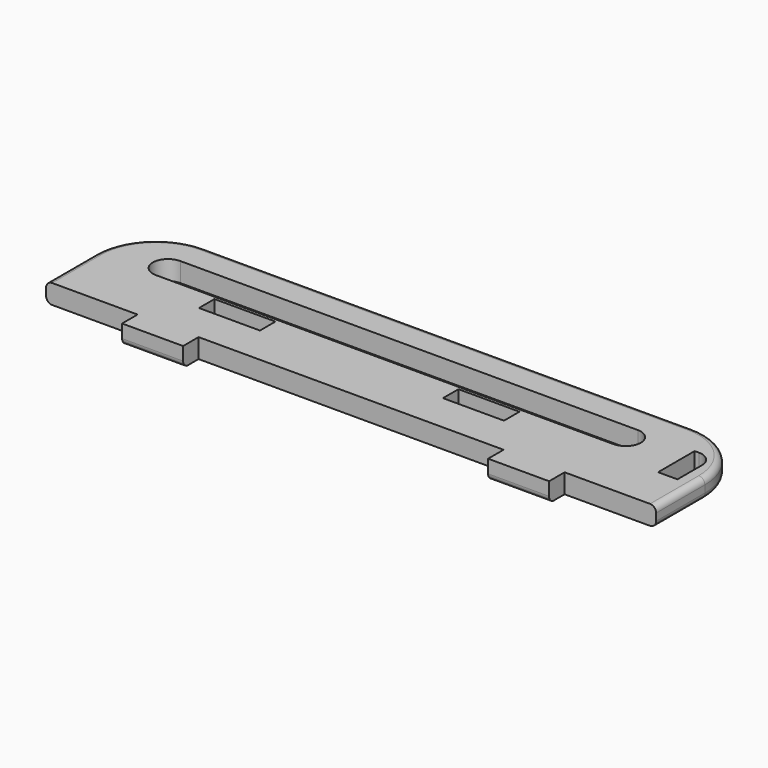
from build123d import *

# Parameters (mm, degrees)
F0_W     = 20
F0_H     = 6.35
F1_DEPTH = 6.35
F2_R     = 2


with BuildPart() as f1:
    # F0 (on Top) → F1 (new body)
    with BuildSketch(Plane.XY):
        with BuildLine():
            Line((88.642785, 10), (-71.357215, 10))
            ThreePointArc((-71.357215, 10), (-85.49935, 4.142136), (-91.357215, -10))
            Line((-91.357215, -10), (-91.357215, -30))
            Line((-91.357215, -30), (-61.357215, -30))
            Line((-61.357215, -30), (-41.357215, -30))
            Line((-41.357215, -30), (58.642785, -30))
            Line((58.642785, -30), (78.642785, -30))
            Line((78.642785, -30), (108.642785, -30))
            Line((108.642785, -30), (108.642785, -10))
            ThreePointArc((108.642785, -10), (102.784921, 4.142136), (88.642785, 10))
        make_face()
        with Locations((-41.357215, -14.175)):
            Rectangle(F0_W, F0_H, mode=Mode.SUBTRACT)
        with Locations((38.642785, -14.175)):
            Rectangle(F0_W, F0_H, mode=Mode.SUBTRACT)
        with BuildLine():
            ThreePointArc((-71.357215, -10), (-76.357215, -5), (-71.357215, 0))
            Line((-71.357215, 0), (78.642785, 0))
            ThreePointArc((78.642785, 0), (82.178319, -1.464466), (83.642785, -5))
            ThreePointArc((83.642785, -5), (82.178319, -8.535534), (78.642785, -10))
            Line((78.642785, -10), (-71.357215, -10))
        make_face(mode=Mode.SUBTRACT)
        with BuildLine():
            Line((97.292785, -15), (97.292785, 0))
            Line((97.292785, 0), (98.642785, 0))
            ThreePointArc((98.642785, 0), (102.178319, -1.464466), (103.642785, -5))
            Line((103.642785, -5), (103.642785, -15))
            Line((103.642785, -15), (97.292785, -15))
        make_face(mode=Mode.SUBTRACT)
        with Locations((-51.357215, -33.175)):
            Rectangle(F0_W, F0_H)
        with Locations((68.642785, -33.175)):
            Rectangle(F0_W, F0_H)
    extrude(amount=F1_DEPTH)

    # F2
    f2_edges = [f1.edges().sort_by_distance(p)[0] for p in [
        (-85.49935, 4.142136, 6.35),
        (8.642785, 10, 0),
        (-51.357215, -36.35, 0),
        (68.642785, -36.35, 0),
    ]]
    fillet(f2_edges, radius=F2_R)


solid = f1.part
